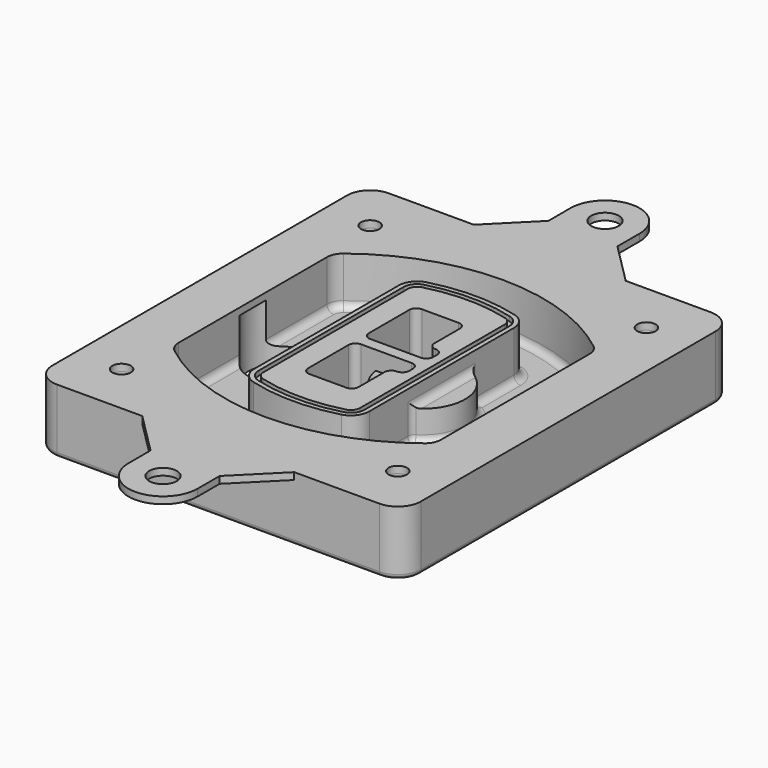
from build123d import *

# Parameters (mm, degrees)
F0_R      = 4
F1_DEPTH  = 25
F2_DEPTH  = 3
F3_DEPTH  = 18
F5_DEPTH  = 21
F6_DEPTH  = 2
F8_DEPTH  = 20
F9_DEPTH  = 16
F10_DEPTH = 25
F7_R      = 6
F7_R_2    = 4
F11_DEPTH = 6
F13_DEPTH = 9
F14_R     = 3
F15_R     = 2
F16_R     = 6
F16_R_2   = 4
F17_DEPTH = 3


with BuildPart() as f1:
    # F0 (on Top) → F1 (new body)
    with BuildSketch(Plane.XY):
        with BuildLine():
            ThreePointArc((-80, -80), (-77.0710678119, -87.0710678119), (-70, -90))
            Line((-70, -90), (70, -90))
            ThreePointArc((70, -90), (77.0710678119, -87.0710678119), (80, -80))
            Line((80, -80), (80, 80))
            ThreePointArc((80, 80), (77.0710678119, 87.0710678119), (70, 90))
            Line((70, 90), (-70, 90))
            ThreePointArc((-70, 90), (-77.0710678119, 87.0710678119), (-80, 80))
            Line((-80, 80), (-80, -80))
        make_face()
        with Locations((-60, -67.5)):
            Circle(F0_R, mode=Mode.SUBTRACT)
        with Locations((60, -67.5)):
            Circle(F0_R, mode=Mode.SUBTRACT)
        with Locations((-60, 67.5)):
            Circle(F0_R, mode=Mode.SUBTRACT)
        with BuildLine():
            ThreePointArc((-64, 40.2934422872), (-62.5820384798, 46.4328484224), (-58.6153846154, 51.3286200352))
            ThreePointArc((-58.6153846154, 51.3286200352), (0, 71.5), (58.6153846154, 51.3286200352))
            ThreePointArc((58.6153846154, 51.3286200352), (62.5820384798, 46.4328484224), (64, 40.2934422872))
            Line((64, 40.2934422872), (64, -40.2934422872))
            ThreePointArc((64, -40.2934422872), (62.5820384798, -46.4328484224), (58.6153846154, -51.3286200352))
            ThreePointArc((58.6153846154, -51.3286200352), (0, -71.5), (-58.6153846154, -51.3286200352))
            ThreePointArc((-58.6153846154, -51.3286200352), (-62.5820384798, -46.4328484224), (-64, -40.2934422872))
            Line((-64, -40.2934422872), (-64, 40.2934422872))
        make_face(mode=Mode.SUBTRACT)
        with Locations((60, 67.5)):
            Circle(F0_R, mode=Mode.SUBTRACT)
        with BuildLine():
            ThreePointArc((58.6153846154, 51.3286200352), (0, 71.5), (-58.6153846154, 51.3286200352))
            ThreePointArc((-58.6153846154, 51.3286200352), (-62.5820384798, 46.4328484224), (-64, 40.2934422872))
            Line((-64, 40.2934422872), (-64, -40.2934422872))
            ThreePointArc((-64, -40.2934422872), (-62.5820384798, -46.4328484224), (-58.6153846154, -51.3286200352))
            ThreePointArc((-58.6153846154, -51.3286200352), (0, -71.5), (58.6153846154, -51.3286200352))
            ThreePointArc((58.6153846154, -51.3286200352), (62.5820384798, -46.4328484224), (64, -40.2934422872))
            Line((64, -40.2934422872), (64, 40.2934422872))
            ThreePointArc((64, 40.2934422872), (62.5820384798, 46.4328484224), (58.6153846154, 51.3286200352))
        make_face()
        with BuildLine():
            Line((-60, -40.2934422872), (-60, 40.2934422872))
            ThreePointArc((-60, 40.2934422872), (-58.9871703427, 44.6787323838), (-56.1538461538, 48.1757121072))
            ThreePointArc((-56.1538461538, 48.1757121072), (0, 67.5), (56.1538461538, 48.1757121072))
            ThreePointArc((56.1538461538, 48.1757121072), (58.9871703427, 44.6787323838), (60, 40.2934422872))
            Line((60, 40.2934422872), (60, -40.2934422872))
            ThreePointArc((60, -40.2934422872), (58.9871703427, -44.6787323838), (56.1538461538, -48.1757121072))
            ThreePointArc((56.1538461538, -48.1757121072), (0, -67.5), (-56.1538461538, -48.1757121072))
            ThreePointArc((-56.1538461538, -48.1757121072), (-58.9871703427, -44.6787323838), (-60, -40.2934422872))
        make_face(mode=Mode.SUBTRACT)
        with BuildLine():
            ThreePointArc((-56.1538461538, 48.1757121072), (-58.9871703427, 44.6787323838), (-60, 40.2934422872))
            Line((-60, 40.2934422872), (-60, -40.2934422872))
            ThreePointArc((-60, -40.2934422872), (-58.9871703427, -44.6787323838), (-56.1538461538, -48.1757121072))
            ThreePointArc((-56.1538461538, -48.1757121072), (0, -67.5), (56.1538461538, -48.1757121072))
            ThreePointArc((56.1538461538, -48.1757121072), (58.9871703427, -44.6787323838), (60, -40.2934422872))
            Line((60, -40.2934422872), (60, 40.2934422872))
            ThreePointArc((60, 40.2934422872), (58.9871703427, 44.6787323838), (56.1538461538, 48.1757121072))
            ThreePointArc((56.1538461538, 48.1757121072), (0, 67.5), (-56.1538461538, 48.1757121072))
        make_face()
        with BuildLine():
            ThreePointArc((54.3076923077, 45.8110311612), (56.2910192399, 43.3631453548), (57, 40.2934422872))
            Line((57, 40.2934422872), (57, -40.2934422872))
            ThreePointArc((57, -40.2934422872), (56.2910192399, -43.3631453548), (54.3076923077, -45.8110311612))
            ThreePointArc((54.3076923077, -45.8110311612), (0, -64.5), (-54.3076923077, -45.8110311612))
            ThreePointArc((-54.3076923077, -45.8110311612), (-56.2910192399, -43.3631453548), (-57, -40.2934422872))
            Line((-57, -40.2934422872), (-57, 40.2934422872))
            ThreePointArc((-57, 40.2934422872), (-56.2910192399, 43.3631453548), (-54.3076923077, 45.8110311612))
            ThreePointArc((-54.3076923077, 45.8110311612), (0, 64.5), (54.3076923077, 45.8110311612))
        make_face(mode=Mode.SUBTRACT)
        with BuildLine():
            Line((57, -40.2934422872), (57, 40.2934422872))
            ThreePointArc((57, 40.2934422872), (56.2910192399, 43.3631453548), (54.3076923077, 45.8110311612))
            ThreePointArc((54.3076923077, 45.8110311612), (0, 64.5), (-54.3076923077, 45.8110311612))
            ThreePointArc((-54.3076923077, 45.8110311612), (-56.2910192399, 43.3631453548), (-57, 40.2934422872))
            Line((-57, 40.2934422872), (-57, -40.2934422872))
            ThreePointArc((-57, -40.2934422872), (-56.2910192399, -43.3631453548), (-54.3076923077, -45.8110311612))
            ThreePointArc((-54.3076923077, -45.8110311612), (0, -64.5), (54.3076923077, -45.8110311612))
            ThreePointArc((54.3076923077, -45.8110311612), (56.2910192399, -43.3631453548), (57, -40.2934422872))
        make_face()
    extrude(amount=-F1_DEPTH)

    # F0 (on Top) → F2 (join)
    with BuildSketch(Plane.XY):
        with BuildLine():
            ThreePointArc((-56.1538461538, 48.1757121072), (-58.9871703427, 44.6787323838), (-60, 40.2934422872))
            Line((-60, 40.2934422872), (-60, -40.2934422872))
            ThreePointArc((-60, -40.2934422872), (-58.9871703427, -44.6787323838), (-56.1538461538, -48.1757121072))
            ThreePointArc((-56.1538461538, -48.1757121072), (0, -67.5), (56.1538461538, -48.1757121072))
            ThreePointArc((56.1538461538, -48.1757121072), (58.9871703427, -44.6787323838), (60, -40.2934422872))
            Line((60, -40.2934422872), (60, 40.2934422872))
            ThreePointArc((60, 40.2934422872), (58.9871703427, 44.6787323838), (56.1538461538, 48.1757121072))
            ThreePointArc((56.1538461538, 48.1757121072), (0, 67.5), (-56.1538461538, 48.1757121072))
        make_face()
        with BuildLine():
            ThreePointArc((54.3076923077, 45.8110311612), (56.2910192399, 43.3631453548), (57, 40.2934422872))
            Line((57, 40.2934422872), (57, -40.2934422872))
            ThreePointArc((57, -40.2934422872), (56.2910192399, -43.3631453548), (54.3076923077, -45.8110311612))
            ThreePointArc((54.3076923077, -45.8110311612), (0, -64.5), (-54.3076923077, -45.8110311612))
            ThreePointArc((-54.3076923077, -45.8110311612), (-56.2910192399, -43.3631453548), (-57, -40.2934422872))
            Line((-57, -40.2934422872), (-57, 40.2934422872))
            ThreePointArc((-57, 40.2934422872), (-56.2910192399, 43.3631453548), (-54.3076923077, 45.8110311612))
            ThreePointArc((-54.3076923077, 45.8110311612), (0, 64.5), (54.3076923077, 45.8110311612))
        make_face(mode=Mode.SUBTRACT)
    extrude(amount=F2_DEPTH)

    # F0 (on Top) → F3 (cut)
    with BuildSketch(Plane.XY):
        with BuildLine():
            Line((57, -40.2934422872), (57, 40.2934422872))
            ThreePointArc((57, 40.2934422872), (56.2910192399, 43.3631453548), (54.3076923077, 45.8110311612))
            ThreePointArc((54.3076923077, 45.8110311612), (0, 64.5), (-54.3076923077, 45.8110311612))
            ThreePointArc((-54.3076923077, 45.8110311612), (-56.2910192399, 43.3631453548), (-57, 40.2934422872))
            Line((-57, 40.2934422872), (-57, -40.2934422872))
            ThreePointArc((-57, -40.2934422872), (-56.2910192399, -43.3631453548), (-54.3076923077, -45.8110311612))
            ThreePointArc((-54.3076923077, -45.8110311612), (0, -64.5), (54.3076923077, -45.8110311612))
            ThreePointArc((54.3076923077, -45.8110311612), (56.2910192399, -43.3631453548), (57, -40.2934422872))
        make_face()
    extrude(amount=-F3_DEPTH, mode=Mode.SUBTRACT)

    # F4 (on face) → F5 (join, through all)
    with BuildSketch(Plane.XY.offset(3)):
        with BuildLine():
            ThreePointArc((-25, -39.2465276821), (-23.3511545998, -44.1109737193), (-19.0842911877, -46.9702398883))
            ThreePointArc((-19.0842911877, -46.9702398883), (0, -49.5), (19.0842911877, -46.9702398883))
            ThreePointArc((19.0842911877, -46.9702398883), (23.3511545998, -44.1109737193), (25, -39.2465276821))
            Line((25, -39.2465276821), (25, 39.2465276821))
            ThreePointArc((25, 39.2465276821), (23.3511545998, 44.1109737193), (19.0842911877, 46.9702398883))
            ThreePointArc((19.0842911877, 46.9702398883), (0, 49.5), (-19.0842911877, 46.9702398883))
            ThreePointArc((-19.0842911877, 46.9702398883), (-23.3511545998, 44.1109737193), (-25, 39.2465276821))
            Line((-25, 39.2465276821), (-25, -39.2465276821))
        make_face()
        with BuildLine():
            ThreePointArc((18.5632183908, 45.0393118368), (21.7633659499, 42.89486221), (23, 39.2465276821))
            Line((23, 39.2465276821), (23, -39.2465276821))
            ThreePointArc((23, -39.2465276821), (21.7633659499, -42.89486221), (18.5632183908, -45.0393118368))
            ThreePointArc((18.5632183908, -45.0393118368), (0, -47.5), (-18.5632183908, -45.0393118368))
            ThreePointArc((-18.5632183908, -45.0393118368), (-21.7633659499, -42.89486221), (-23, -39.2465276821))
            Line((-23, -39.2465276821), (-23, 39.2465276821))
            ThreePointArc((-23, 39.2465276821), (-21.7633659499, 42.89486221), (-18.5632183908, 45.0393118368))
            ThreePointArc((-18.5632183908, 45.0393118368), (0, 47.5), (18.5632183908, 45.0393118368))
        make_face(mode=Mode.SUBTRACT)
        with BuildLine():
            Line((23, -39.2465276821), (23, 39.2465276821))
            ThreePointArc((23, 39.2465276821), (21.7633659499, 42.89486221), (18.5632183908, 45.0393118368))
            ThreePointArc((18.5632183908, 45.0393118368), (0, 47.5), (-18.5632183908, 45.0393118368))
            ThreePointArc((-18.5632183908, 45.0393118368), (-21.7633659499, 42.89486221), (-23, 39.2465276821))
            Line((-23, 39.2465276821), (-23, -39.2465276821))
            ThreePointArc((-23, -39.2465276821), (-21.7633659499, -42.89486221), (-18.5632183908, -45.0393118368))
            ThreePointArc((-18.5632183908, -45.0393118368), (0, -47.5), (18.5632183908, -45.0393118368))
            ThreePointArc((18.5632183908, -45.0393118368), (21.7633659499, -42.89486221), (23, -39.2465276821))
        make_face()
        with BuildLine():
            ThreePointArc((18.0421455939, 43.1083837852), (20.1755772999, 41.6787507007), (21, 39.2465276821))
            Line((21, 39.2465276821), (21, -39.2465276821))
            ThreePointArc((21, -39.2465276821), (20.1755772999, -41.6787507007), (18.0421455939, -43.1083837852))
            ThreePointArc((18.0421455939, -43.1083837852), (0, -45.5), (-18.0421455939, -43.1083837852))
            ThreePointArc((-18.0421455939, -43.1083837852), (-20.1755772999, -41.6787507007), (-21, -39.2465276821))
            Line((-21, -39.2465276821), (-21, 39.2465276821))
            ThreePointArc((-21, 39.2465276821), (-20.1755772999, 41.6787507007), (-18.0421455939, 43.1083837852))
            ThreePointArc((-18.0421455939, 43.1083837852), (0, 45.5), (18.0421455939, 43.1083837852))
        make_face(mode=Mode.SUBTRACT)
        with BuildLine():
            Line((21, -39.2465276821), (21, 39.2465276821))
            ThreePointArc((21, 39.2465276821), (20.1755772999, 41.6787507007), (18.0421455939, 43.1083837852))
            ThreePointArc((18.0421455939, 43.1083837852), (0, 45.5), (-18.0421455939, 43.1083837852))
            ThreePointArc((-18.0421455939, 43.1083837852), (-20.1755772999, 41.6787507007), (-21, 39.2465276821))
            Line((-21, 39.2465276821), (-21, -39.2465276821))
            ThreePointArc((-21, -39.2465276821), (-20.1755772999, -41.6787507007), (-18.0421455939, -43.1083837852))
            ThreePointArc((-18.0421455939, -43.1083837852), (0, -45.5), (18.0421455939, -43.1083837852))
            ThreePointArc((18.0421455939, -43.1083837852), (20.1755772999, -41.6787507007), (21, -39.2465276821))
        make_face()
        with BuildLine():
            Line((-8, -2.5), (14, -2.5))
            ThreePointArc((14, -2.5), (16.1213203436, -3.3786796564), (17, -5.5))
            Line((17, -5.5), (17, -7.5))
            ThreePointArc((17, -7.5), (16.1213203436, -9.6213203436), (14, -10.5))
            ThreePointArc((14, -10.5), (11.8786796564, -11.3786796564), (11, -13.5))
            Line((11, -13.5), (11, -27.5))
            ThreePointArc((11, -27.5), (10.1213203436, -29.6213203436), (8, -30.5))
            Line((8, -30.5), (-8, -30.5))
            ThreePointArc((-8, -30.5), (-10.1213203436, -29.6213203436), (-11, -27.5))
            Line((-11, -27.5), (-11, -5.5))
            ThreePointArc((-11, -5.5), (-10.1213203436, -3.3786796564), (-8, -2.5))
        make_face(mode=Mode.SUBTRACT)
        with BuildLine():
            ThreePointArc((-8, 2.5), (-10.1213203436, 3.3786796564), (-11, 5.5))
            Line((-11, 5.5), (-11, 27.5))
            ThreePointArc((-11, 27.5), (-10.1213203436, 29.6213203436), (-8, 30.5))
            Line((-8, 30.5), (8, 30.5))
            ThreePointArc((8, 30.5), (10.1213203436, 29.6213203436), (11, 27.5))
            Line((11, 27.5), (11, 13.5))
            ThreePointArc((11, 13.5), (11.8786796564, 11.3786796564), (14, 10.5))
            ThreePointArc((14, 10.5), (16.1213203436, 9.6213203436), (17, 7.5))
            Line((17, 7.5), (17, 5.5))
            ThreePointArc((17, 5.5), (16.1213203436, 3.3786796564), (14, 2.5))
            Line((14, 2.5), (-8, 2.5))
        make_face(mode=Mode.SUBTRACT)
    extrude(amount=-F5_DEPTH)

    # F4 (on face) → F6 (cut)
    with BuildSketch(Plane.XY.offset(3)):
        with BuildLine():
            Line((23, -39.2465276821), (23, 39.2465276821))
            ThreePointArc((23, 39.2465276821), (21.7633659499, 42.89486221), (18.5632183908, 45.0393118368))
            ThreePointArc((18.5632183908, 45.0393118368), (0, 47.5), (-18.5632183908, 45.0393118368))
            ThreePointArc((-18.5632183908, 45.0393118368), (-21.7633659499, 42.89486221), (-23, 39.2465276821))
            Line((-23, 39.2465276821), (-23, -39.2465276821))
            ThreePointArc((-23, -39.2465276821), (-21.7633659499, -42.89486221), (-18.5632183908, -45.0393118368))
            ThreePointArc((-18.5632183908, -45.0393118368), (0, -47.5), (18.5632183908, -45.0393118368))
            ThreePointArc((18.5632183908, -45.0393118368), (21.7633659499, -42.89486221), (23, -39.2465276821))
        make_face()
        with BuildLine():
            ThreePointArc((18.0421455939, 43.1083837852), (20.1755772999, 41.6787507007), (21, 39.2465276821))
            Line((21, 39.2465276821), (21, -39.2465276821))
            ThreePointArc((21, -39.2465276821), (20.1755772999, -41.6787507007), (18.0421455939, -43.1083837852))
            ThreePointArc((18.0421455939, -43.1083837852), (0, -45.5), (-18.0421455939, -43.1083837852))
            ThreePointArc((-18.0421455939, -43.1083837852), (-20.1755772999, -41.6787507007), (-21, -39.2465276821))
            Line((-21, -39.2465276821), (-21, 39.2465276821))
            ThreePointArc((-21, 39.2465276821), (-20.1755772999, 41.6787507007), (-18.0421455939, 43.1083837852))
            ThreePointArc((-18.0421455939, 43.1083837852), (0, 45.5), (18.0421455939, 43.1083837852))
        make_face(mode=Mode.SUBTRACT)
    extrude(amount=-F6_DEPTH, mode=Mode.SUBTRACT)

    # F7 (on face) → F8 (join)
    with BuildSketch(Plane(origin=(0, 0, -25), x_dir=(1, 0, 0), z_dir=(0, 0, -1))):
        with BuildLine():
            ThreePointArc((3.28842436, 0), (16.7567035675, 13.4682792075), (30.224982775, 0))
            Line((30.224982775, 0), (35.224982775, 0))
            ThreePointArc((35.224982775, 0), (16.7567035675, 18.4682792075), (-1.71157564, 0))
            Line((-1.71157564, 0), (3.28842436, 0))
        make_face()
        with BuildLine():
            Line((3.28842436, 0), (30.224982775, 0))
            ThreePointArc((30.224982775, 0), (16.7567035675, 13.4682792075), (3.28842436, 0))
        make_face()
        with BuildLine():
            ThreePointArc((3.28842436, 0), (16.7567035675, -13.4682792075), (30.224982775, 0))
            Line((30.224982775, 0), (3.28842436, 0))
        make_face()
        with BuildLine():
            Line((35.224982775, 0), (30.224982775, 0))
            ThreePointArc((30.224982775, 0), (16.7567035675, -13.4682792075), (3.28842436, 0))
            Line((3.28842436, 0), (-1.71157564, 0))
            ThreePointArc((-1.71157564, 0), (16.7567035675, -18.4682792075), (35.224982775, 0))
        make_face()
    extrude(amount=-F8_DEPTH)

    # F7 (on face) → F9 (cut)
    with BuildSketch(Plane(origin=(0, 0, -25), x_dir=(1, 0, 0), z_dir=(0, 0, -1))):
        with BuildLine():
            Line((3.28842436, 0), (30.224982775, 0))
            ThreePointArc((30.224982775, 0), (16.7567035675, 13.4682792075), (3.28842436, 0))
        make_face()
        with BuildLine():
            ThreePointArc((3.28842436, 0), (16.7567035675, -13.4682792075), (30.224982775, 0))
            Line((30.224982775, 0), (3.28842436, 0))
        make_face()
    extrude(amount=-F9_DEPTH, mode=Mode.SUBTRACT)

    # F7 (on face) → F10 (cut)
    with BuildSketch(Plane(origin=(0, 0, -25), x_dir=(1, 0, 0), z_dir=(0, 0, -1))):
        with BuildLine():
            Line((-59.0318229325, 0), (-32.0952645175, 0))
            ThreePointArc((-32.0952645175, 0), (-45.563543725, 13.4682792075), (-59.0318229325, 0))
        make_face()
        with BuildLine():
            ThreePointArc((-59.0318229325, 0), (-45.563543725, -13.4682792075), (-32.0952645175, 0))
            Line((-32.0952645175, 0), (-59.0318229325, 0))
        make_face()
    extrude(amount=-F10_DEPTH, mode=Mode.SUBTRACT)

    # F7 (on face) → F11 (cut)
    with BuildSketch(Plane(origin=(0, 0, -25), x_dir=(1, 0, 0), z_dir=(0, 0, -1))):
        with Locations((60, -67.5)):
            Circle(F7_R)
        with Locations((60, -67.5)):
            Circle(F7_R_2, mode=Mode.SUBTRACT)
        with Locations((60, -67.5)):
            Circle(F7_R)
        with Locations((60, -67.5)):
            Circle(F7_R_2, mode=Mode.SUBTRACT)
        with Locations((-60, -67.5)):
            Circle(F7_R)
        with Locations((-60, -67.5)):
            Circle(F7_R_2, mode=Mode.SUBTRACT)
        with Locations((-60, -67.5)):
            Circle(F7_R)
        with Locations((-60, -67.5)):
            Circle(F7_R_2, mode=Mode.SUBTRACT)
        with Locations((-60, 67.5)):
            Circle(F7_R)
        with Locations((-60, 67.5)):
            Circle(F7_R_2, mode=Mode.SUBTRACT)
        with Locations((-60, 67.5)):
            Circle(F7_R)
        with Locations((-60, 67.5)):
            Circle(F7_R_2, mode=Mode.SUBTRACT)
        with Locations((60, 67.5)):
            Circle(F7_R)
        with Locations((60, 67.5)):
            Circle(F7_R_2, mode=Mode.SUBTRACT)
        with Locations((60, 67.5)):
            Circle(F7_R)
        with Locations((60, 67.5)):
            Circle(F7_R_2, mode=Mode.SUBTRACT)
    extrude(amount=-F11_DEPTH, mode=Mode.SUBTRACT)

    # F12 (on face) → F13 (cut, through all)
    with BuildSketch(Plane(origin=(0, 0, -9), x_dir=(1, 0, 0), z_dir=(0, 0, -1))):
        with BuildLine():
            Line((11, 13.5), (11, 17.5481537753))
            ThreePointArc((11, 17.5481537753), (2.5696536419, 11.8239143813), (-1.5415842455, 2.5))
            Line((-1.5415842455, 2.5), (3.5224848595, 2.5))
            ThreePointArc((3.5224848595, 2.5), (6.1857188154, 8.3455872281), (11.2536447004, 12.2927168648))
            ThreePointArc((11.2536447004, 12.2927168648), (11.0640958889, 12.8831798879), (11, 13.5))
        make_face()
        with BuildLine():
            ThreePointArc((11.2536447004, -12.2927168648), (6.1857188154, -8.3455872281), (3.5224848595, -2.5))
            Line((3.5224848595, -2.5), (-1.5415842455, -2.5))
            ThreePointArc((-1.5415842455, -2.5), (2.5696536419, -11.8239143813), (11, -17.5481537753))
            Line((11, -17.5481537753), (11, -13.5))
            ThreePointArc((11, -13.5), (11.0640958889, -12.8831798879), (11.2536447004, -12.2927168648))
        make_face()
        with BuildLine():
            ThreePointArc((11.2536447004, 12.2927168648), (6.1857188154, 8.3455872281), (3.5224848595, 2.5))
            Line((3.5224848595, 2.5), (14, 2.5))
            ThreePointArc((14, 2.5), (16.1213203436, 3.3786796564), (17, 5.5))
            Line((17, 5.5), (17, 7.5))
            ThreePointArc((17, 7.5), (16.1213203436, 9.6213203436), (14, 10.5))
            ThreePointArc((14, 10.5), (12.3601599782, 10.9878446101), (11.2536447004, 12.2927168648))
        make_face()
        with BuildLine():
            Line((14, -2.5), (3.5224848595, -2.5))
            ThreePointArc((3.5224848595, -2.5), (6.1857188154, -8.3455872281), (11.2536447004, -12.2927168648))
            ThreePointArc((11.2536447004, -12.2927168648), (12.3601599782, -10.9878446101), (14, -10.5))
            ThreePointArc((14, -10.5), (16.1213203436, -9.6213203436), (17, -7.5))
            Line((17, -7.5), (17, -5.5))
            ThreePointArc((17, -5.5), (16.1213203436, -3.3786796564), (14, -2.5))
        make_face()
    extrude(amount=F13_DEPTH, mode=Mode.SUBTRACT)

    # F14
    f14_edges = [f1.edges().sort_by_distance(p)[0] for p in [
        (-57, -23.703476, -18),
        (-57, 23.703476, -18),
        (25, 0, -5),
        (25, 16.526506, -11.5),
        (25, -16.526506, -11.5),
        (25, -27.886517, -18),
        (35.224983, 0, -18),
    ]]
    fillet(f14_edges, radius=F14_R)

    # F15
    f15_edges = [f1.edges().sort_by_distance(p)[0] for p in [
        (0, -90, -25),
    ]]
    fillet(f15_edges, radius=F15_R)

    # F16 (on face) → F17 (join, through all)
    with BuildSketch(Plane.XY):
        with BuildLine():
            ThreePointArc((15, 120), (0, 135), (-15, 120))
            Line((-15, 120), (-15, 108))
            Line((-15, 108), (-33, 90))
            Line((-33, 90), (33, 90))
            Line((33, 90), (15, 108))
            Line((15, 108), (15, 120))
        make_face()
        with Locations((0, 120)):
            Circle(F16_R, mode=Mode.SUBTRACT)
        with BuildLine():
            Line((33, -90), (-33, -90))
            Line((-33, -90), (-15, -108))
            Line((-15, -108), (-15, -120))
            ThreePointArc((-15, -120), (0, -135), (15, -120))
            Line((15, -120), (15, -108))
            Line((15, -108), (33, -90))
        make_face()
        with Locations((0, -120)):
            Circle(F16_R, mode=Mode.SUBTRACT)
        with BuildLine():
            Line((33, 90), (-33, 90))
            Line((-33, 90), (-70, 90))
            ThreePointArc((-70, 90), (-77.0710678119, 87.0710678119), (-80, 80))
            Line((-80, 80), (-80, -80))
            ThreePointArc((-80, -80), (-77.0710678119, -87.0710678119), (-70, -90))
            Line((-70, -90), (-33, -90))
            Line((-33, -90), (33, -90))
            Line((33, -90), (70, -90))
            ThreePointArc((70, -90), (77.0710678119, -87.0710678119), (80, -80))
            Line((80, -80), (80, 80))
            ThreePointArc((80, 80), (77.0710678119, 87.0710678119), (70, 90))
            Line((70, 90), (33, 90))
        make_face()
        with Locations((-60, -67.5)):
            Circle(F16_R_2, mode=Mode.SUBTRACT)
        with Locations((60, -67.5)):
            Circle(F16_R_2, mode=Mode.SUBTRACT)
        with Locations((-60, 67.5)):
            Circle(F16_R_2, mode=Mode.SUBTRACT)
        with BuildLine():
            ThreePointArc((-60, 40.2934422872), (-58.9871703427, 44.6787323838), (-56.1538461538, 48.1757121072))
            ThreePointArc((-56.1538461538, 48.1757121072), (0, 67.5), (56.1538461538, 48.1757121072))
            ThreePointArc((56.1538461538, 48.1757121072), (58.9871703427, 44.6787323838), (60, 40.2934422872))
            Line((60, 40.2934422872), (60, -40.2934422872))
            ThreePointArc((60, -40.2934422872), (58.9871703427, -44.6787323838), (56.1538461538, -48.1757121072))
            ThreePointArc((56.1538461538, -48.1757121072), (0, -67.5), (-56.1538461538, -48.1757121072))
            ThreePointArc((-56.1538461538, -48.1757121072), (-58.9871703427, -44.6787323838), (-60, -40.2934422872))
            Line((-60, -40.2934422872), (-60, 40.2934422872))
        make_face(mode=Mode.SUBTRACT)
        with Locations((60, 67.5)):
            Circle(F16_R_2, mode=Mode.SUBTRACT)
    extrude(amount=F17_DEPTH)


solid = f1.part
